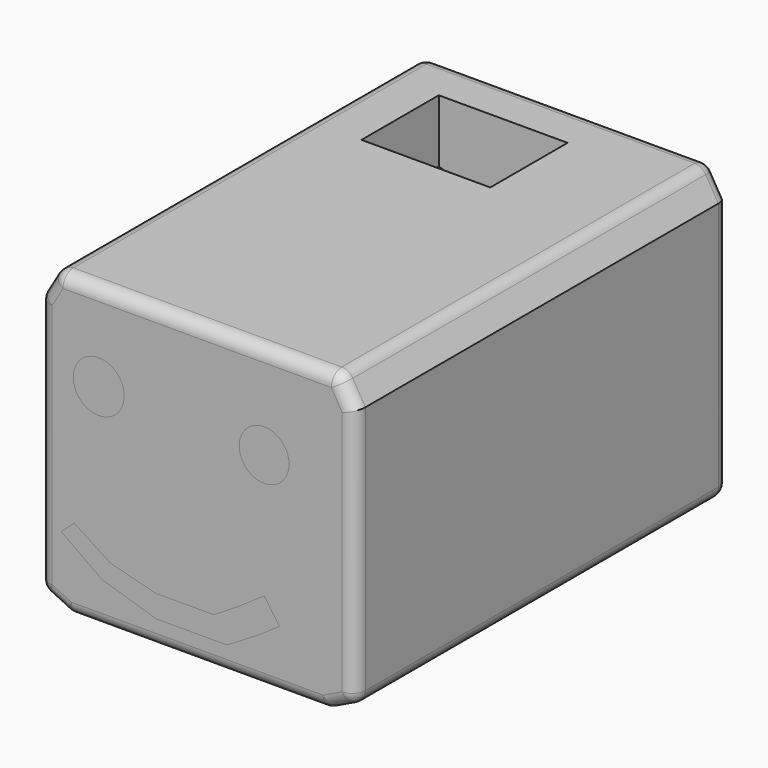
from build123d import *

# Parameters (mm, degrees)
F0_W      = 25.4
F0_H      = 25.4
F0_R      = 10.043463073
F0_R_2    = 9.820348736
F1_DEPTH  = 184.15
F2_R      = 5.08
F3_R      = 10.043463073
F4_DEPTH  = 185.42
F3_R_2    = 9.820348736
F5_W      = 25.4
F5_H      = 25.4
F6_DEPTH  = 134.62
F7_W      = 50.8
F7_H      = 38.1
F8_DEPTH  = 58.42
F10_R     = 9.525
F11_DEPTH = 25.4


with BuildPart() as f1:
    # F0 (on Front) → F1 (new body)
    with BuildSketch(Plane.XZ):
        Polygon((-51.7580384496, -31.4757533676), (-40.2986610914, -36.9504835493), (61.3013389086, -36.9504835493), (72.7607162668, -31.4757533676), (72.7607162668, 70.1242466324), (66.3245889743, 81.0725919628), (-45.321911157, 81.0725919628), (-51.7580384496, 70.1242466324), align=None)
        Polygon((-43.0999696255, -8.6848856881), (-38.0474403501, -4.0534022264), (-23.7319488078, -13.3163677529), (-6.0481042601, -17.9478526115), (17.1093102545, -17.9478526115), (27.2143669426, -11.6321938112), (36.8983782828, -4.8954910599), (42.9227925135, -13.5555875316), (34.6821272495, -19.2882235651), (22.1618395299, -26.7897751182), (-5.6270603091, -26.7897751182), (-27.1002985537, -20.0530737638), align=None, mode=Mode.SUBTRACT)
        with Locations((2.4414576262, 7.3834645234)):
            Rectangle(F0_W, F0_H, mode=Mode.SUBTRACT)
        with Locations((-28.3634308726, 46.4718677104)):
            Circle(F0_R, mode=Mode.SUBTRACT)
        with Locations((36.8983782828, 43.9456030726)):
            Circle(F0_R_2, mode=Mode.SUBTRACT)
    extrude(amount=F1_DEPTH)

    # F2
    f2_edges = [f1.edges().sort_by_distance(p)[0] for p in [
        (69.542653, 0, 75.598419),
        (10.501339, 0, 81.072592),
        (-48.539975, 0, 75.598419),
        (-51.758038, 0, 19.324247),
        (-46.02835, 0, -34.213118),
        (10.501339, 0, -36.950484),
        (67.031028, 0, -34.213118),
        (72.760716, 0, 19.324247),
        (-51.758038, -92.075, 70.124247),
        (-45.321911, -92.075, 81.072592),
        (-51.758038, -92.075, -31.475753),
        (-40.298661, -92.075, -36.950484),
        (-46.02835, -184.15, -34.213118),
        (-51.758038, -184.15, 19.324247),
        (-48.539975, -184.15, 75.598419),
        (72.760716, -92.075, -31.475753),
        (10.501339, -184.15, -36.950484),
        (67.031028, -184.15, -34.213118),
        (72.760716, -184.15, 19.324247),
        (10.501339, -184.15, 81.072592),
        (69.542653, -184.15, 75.598419),
        (66.324589, -92.075, 81.072592),
        (61.301339, -92.075, -36.950484),
    ]]
    fillet(f2_edges, radius=F2_R)

    # F5 (on face) → F6 (join)
    with BuildSketch(Plane.XZ.offset(184.15)):
        with Locations((2.4414576262, 7.3834645234)):
            Rectangle(F5_W, F5_H)
    extrude(amount=-F6_DEPTH)

    # F7 (on face) → F8 (cut)
    with BuildSketch(Plane.XY.offset(81.0725919628)):
        with Locations((-1.045239158, -37.9315156187)):
            Rectangle(F7_W, F7_H)
    extrude(amount=-F8_DEPTH, mode=Mode.SUBTRACT)

    # F10 (on face) → F11 (cut)
    with BuildSketch(Plane.XY.offset(22.6525919628)):
        with Locations((0, -28.652665766)):
            Circle(F10_R)
    extrude(amount=-F11_DEPTH, mode=Mode.SUBTRACT)


with BuildPart() as f4:
    # F3 (on face) → F4 (new body)
    with BuildSketch(Plane.XZ.offset(184.15)):
        with Locations((-28.3634308726, 46.4718677104)):
            Circle(F3_R)
    extrude(amount=-F4_DEPTH)


with BuildPart() as f4b:
    # F3 (on face) → F4, piece 2 (new body)
    with BuildSketch(Plane.XZ.offset(184.15)):
        with Locations((36.8983782828, 43.9456030726)):
            Circle(F3_R_2)
    extrude(amount=-F4_DEPTH)


with BuildPart() as f4c:
    # F3 (on face) → F4, piece 3 (new body)
    with BuildSketch(Plane.XZ.offset(184.15)):
        Polygon((-27.1002985537, -20.0530737638), (-5.6270603091, -26.7897751182), (22.1618395299, -26.7897751182), (34.6821272495, -19.2882235651), (42.9227925135, -13.5555875316), (36.8983782828, -4.8954910599), (27.2143669426, -11.6321938112), (17.1093102545, -17.9478526115), (-6.0481042601, -17.9478526115), (-23.7319488078, -13.3163677529), (-38.0474403501, -4.0534022264), (-43.0999696255, -8.6848856881), align=None)
    extrude(amount=-F4_DEPTH)


solid = Compound([f1.part, f4.part, f4b.part, f4c.part])
